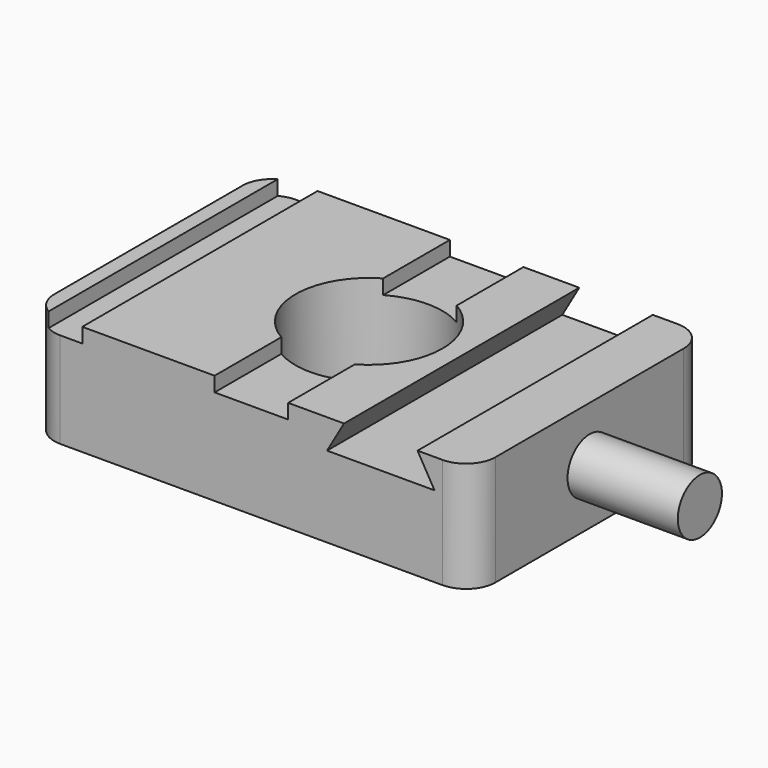
from build123d import *

# Parameters (mm, degrees)
F0_W      = 76.2
F0_H      = 50.8
F0_R      = 12.7
F1_DEPTH  = 19.05
F2_R      = 5.08
F3_R      = 5.08
F4_R      = 5.08
F6_DEPTH  = 2.54
F7_R      = 4.7625
F8_DEPTH  = 19.05
F10_DEPTH = 50.801


with BuildPart() as f1:
    # F0 (on Top) → F1 (new body)
    with BuildSketch(Plane.XY):
        Rectangle(F0_W, F0_H)
        Circle(F0_R, mode=Mode.SUBTRACT)
    extrude(amount=F1_DEPTH)

    # F2
    f2_edges = [f1.edges().sort_by_distance(p)[0] for p in [
        (-38.1, -25.4, 9.525),
    ]]
    fillet(f2_edges, radius=F2_R)

    # F3
    f3_edges = [f1.edges().sort_by_distance(p)[0] for p in [
        (38.1, -25.4, 9.525),
        (38.1, 25.4, 9.525),
    ]]
    fillet(f3_edges, radius=F3_R)

    # F4
    f4_edges = [f1.edges().sort_by_distance(p)[0] for p in [
        (-38.1, 25.4, 9.525),
    ]]
    fillet(f4_edges, radius=F4_R)

    # F5 (on face) → F6 (cut)
    with BuildSketch(Plane.XY.offset(19.05)):
        with BuildLine():
            Line((-29.21, 25.4), (-33.02, 25.4))
            ThreePointArc((-33.02, 25.4), (-34.3348007491, 25.2269031975), (-35.56, 24.7194090512))
            Line((-35.56, 24.7194090512), (-35.56, -24.7194090512))
            ThreePointArc((-35.56, -24.7194090512), (-34.3348007491, -25.2269031975), (-33.02, -25.4))
            Line((-33.02, -25.4), (-29.21, -25.4))
            Line((-29.21, -25.4), (-29.21, 25.4))
        make_face()
        with BuildLine():
            Line((-6.35, -10.9985226281), (-6.35, -25.4))
            Line((-6.35, -25.4), (6.35, -25.4))
            Line((6.35, -25.4), (6.35, -10.9985226281))
            ThreePointArc((6.35, -10.9985226281), (0, -12.7), (-6.35, -10.9985226281))
        make_face()
        with BuildLine():
            Line((6.35, 25.4), (-6.35, 25.4))
            Line((-6.35, 25.4), (-6.35, 10.9985226281))
            ThreePointArc((-6.35, 10.9985226281), (0, 12.7), (6.35, 10.9985226281))
            Line((6.35, 10.9985226281), (6.35, 25.4))
        make_face()
    extrude(amount=-F6_DEPTH, mode=Mode.SUBTRACT)

    # F7 (on face) → F8 (join)
    with BuildSketch(Plane.YZ.offset(38.1)):
        with Locations((0, 9.525)):
            Circle(F7_R)
    extrude(amount=F8_DEPTH)

    # F9 (on face) → F10 (cut, through all)
    with BuildSketch(Plane.XZ.offset(25.4)):
        Polygon((28.702, 19.05), (16.002, 19.05), (13.0690606325, 13.97), (31.6349393675, 13.97), align=None)
    extrude(amount=-F10_DEPTH, mode=Mode.SUBTRACT)


solid = f1.part
